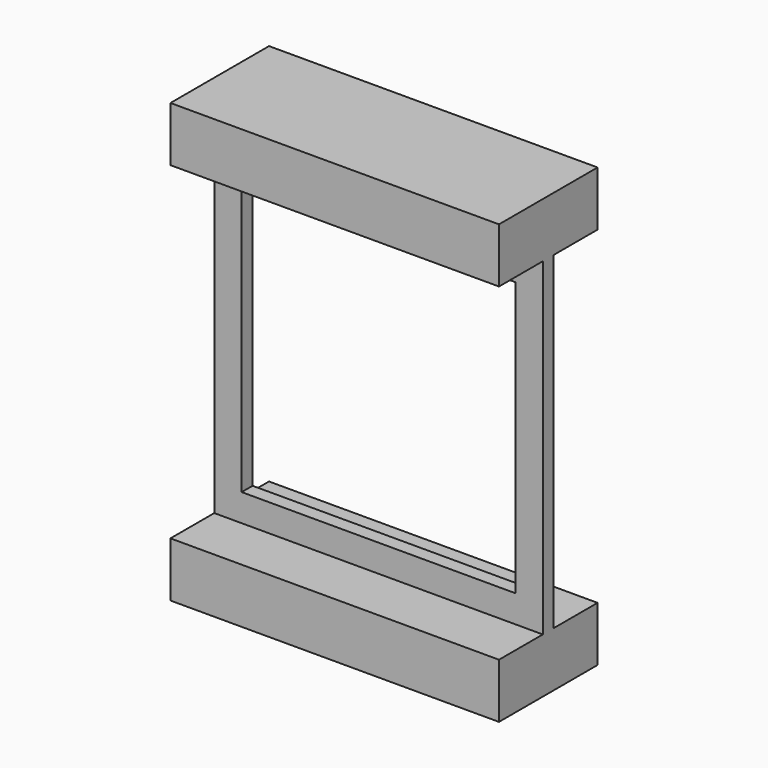
from build123d import *

# Parameters (mm, degrees)
F1_DEPTH = 12
F2_W     = 10
F2_H     = 10
F3_DEPTH = 0.5


with BuildPart() as f1:
    # F0 (on Right) → F1 (new body)
    with BuildSketch(Plane.YZ):
        Polygon((2.25, 16), (-2.25, 16), (-2.25, 14), (-0.25, 14), (-0.25, 2), (-2.25, 2), (-2.25, 0), (2.25, 0), (2.25, 2), (0.25, 2), (0.25, 14), (2.25, 14), align=None)
    extrude(amount=F1_DEPTH)

    # F2 (on face) → F3 (cut, through all)
    with BuildSketch(Plane(origin=(0, 0.25, 0), x_dir=(-1, 0, 0), z_dir=(0, 1, 0))):
        with Locations((-6, 8)):
            Rectangle(F2_W, F2_H)
    extrude(amount=-F3_DEPTH, mode=Mode.SUBTRACT)


solid = f1.part
